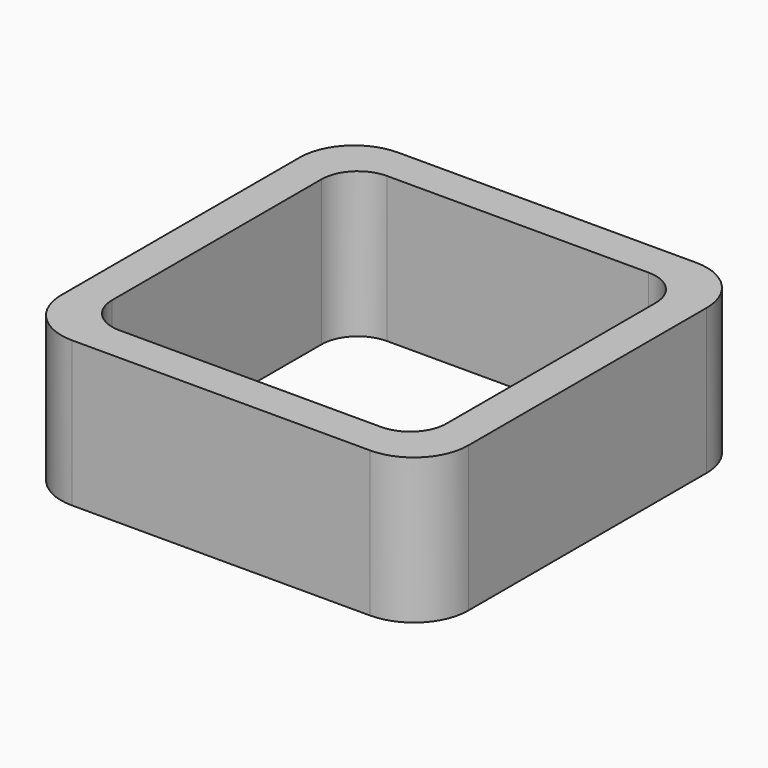
from build123d import *

# Parameters (mm, degrees)
EXTRUDE_DEPTH = 50


with BuildPart() as part:
    # Sketch → Extrude (new body)
    with BuildSketch(Plane.XY):
        with BuildLine():
            Line((-51.25, 70), (51.25, 70))
            ThreePointArc((70, 51.25), (64.508252, 64.508252), (51.25, 70))
            Line((70, 51.25), (70, -51.25))
            ThreePointArc((51.25, -70), (64.508252, -64.508252), (70, -51.25))
            Line((51.25, -70), (-51.25, -70))
            ThreePointArc((-70, -51.25), (-64.508252, -64.508252), (-51.25, -70))
            Line((-70, -51.25), (-70, 51.25))
            ThreePointArc((-51.25, 70), (-64.508252, 64.508252), (-70, 51.25))
        make_face()
        with BuildLine():
            Line((-45, 57.5), (45, 57.5))
            ThreePointArc((57.5, 45), (53.838835, 53.838835), (45, 57.5))
            Line((57.5, 45), (57.5, -45))
            ThreePointArc((45, -57.5), (53.838835, -53.838835), (57.5, -45))
            Line((45, -57.5), (-45, -57.5))
            ThreePointArc((-57.5, -45), (-53.838835, -53.838835), (-45, -57.5))
            Line((-57.5, -45), (-57.5, 45))
            ThreePointArc((-45, 57.5), (-53.838835, 53.838835), (-57.5, 45))
        make_face(mode=Mode.SUBTRACT)
    extrude(amount=EXTRUDE_DEPTH)


solid = part.part
